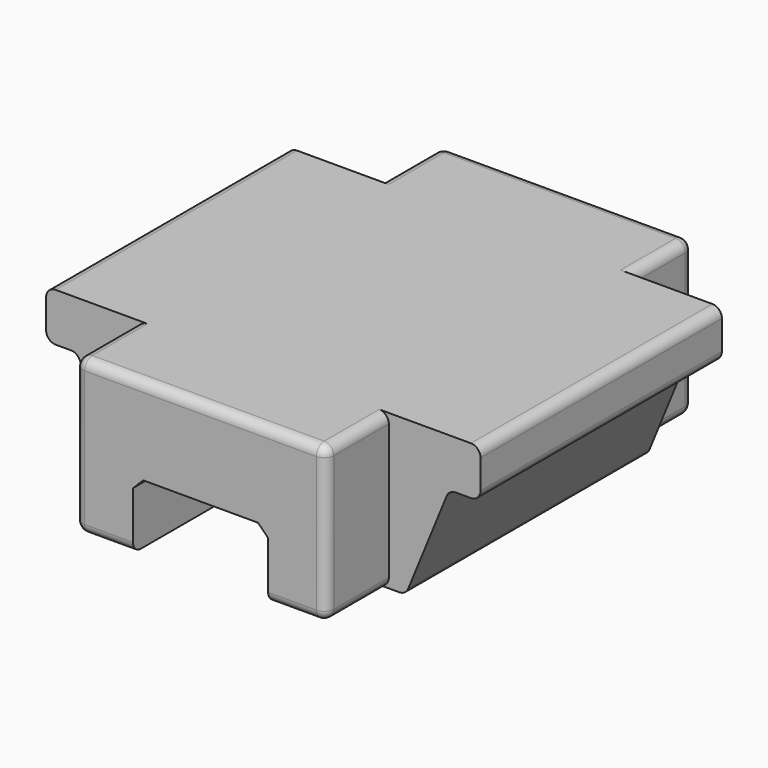
from build123d import *

# Parameters (mm, degrees)
F0_W          = 90
F0_H          = 32
F1_DEPTH      = 65.2
F3_DEPTH      = 25
F4_W          = 90
F4_H          = 65.2
F5_DEPTH      = 32.001
F6_DEPTH      = 62.5
F8_DEPTH      = 16.25
F8_DEPTH_BACK = 78.75
F9_R          = 2
F11_DEPTH     = 78.751


with BuildPart() as f1:
    # F0 (on Front) → F1 (new body)
    with BuildSketch(Plane.XZ):
        with Locations((-2.4301670492, -5.0586230417)):
            Rectangle(F0_W, F0_H)
    extrude(amount=F1_DEPTH)

    # F2 (on face) → F3 (join)
    with BuildSketch(Plane.XZ.offset(65.2)):
        with BuildLine():
            Line((40.5698329508, 10.9413769583), (-45.4301670492, 10.9413769583))
            ThreePointArc((-45.4301670492, 10.9413769583), (-46.8443806115, 10.3555905207), (-47.4301670492, 8.9413769583))
            Line((-47.4301670492, 8.9413769583), (-47.4301670492, 2.9413769583))
            ThreePointArc((-47.4301670492, 2.9413769583), (-46.8443806115, 1.5271633959), (-45.4301670492, 0.9413769583))
            Line((-45.4301670492, 0.9413769583), (-42.2728696535, 0.9413769583))
            ThreePointArc((-42.2728696535, 0.9413769583), (-41.1580897163, 0.6018785968), (-40.4217757411, -0.3013573503))
            Line((-40.4217757411, -0.3013573503), (-32.4385583572, -19.8158887331))
            ThreePointArc((-32.4385583572, -19.8158887331), (-31.7022443821, -20.7191246802), (-30.5874644448, -21.0586230417))
            Line((-30.5874644448, -21.0586230417), (25.7271303465, -21.0586230417))
            ThreePointArc((25.7271303465, -21.0586230417), (26.8419102837, -20.7191246802), (27.5782242589, -19.8158887331))
            Line((27.5782242589, -19.8158887331), (35.5614416428, -0.3013573503))
            ThreePointArc((35.5614416428, -0.3013573503), (36.2977556179, 0.6018785968), (37.4125355552, 0.9413769583))
            Line((37.4125355552, 0.9413769583), (40.5698329508, 0.9413769583))
            ThreePointArc((40.5698329508, 0.9413769583), (41.9840465132, 1.5271633959), (42.5698329508, 2.9413769583))
            Line((42.5698329508, 2.9413769583), (42.5698329508, 8.9413769583))
            ThreePointArc((42.5698329508, 8.9413769583), (41.9840465132, 10.3555905207), (40.5698329508, 10.9413769583))
        make_face()
    extrude(amount=F3_DEPTH)

    # F4 (on face) → F5 (cut, through all)
    with BuildSketch(Plane.XY.offset(10.9413769583)):
        with Locations((-2.4301670492, -32.6)):
            Rectangle(F4_W, F4_H)
    extrude(amount=-F5_DEPTH, mode=Mode.SUBTRACT)

    # F6 (add): a face of the model
    f6_faces = [f1.faces().sort_by_distance(p)[0] for p in [
        (-2.4301670492, -90.2, -3.7537517767),
    ]]
    extrude(f6_faces, amount=-F6_DEPTH)

    # F7 (on face) → F8 (join, two sides)
    with BuildSketch(Plane.XZ.offset(90.2)) as f8_sk:
        with BuildLine():
            Line((21.5698329508, 10.9413769583), (-26.4301670492, 10.9413769583))
            ThreePointArc((-26.4301670492, 10.9413769583), (-27.8443806115, 10.3555905207), (-28.4301670492, 8.9413769583))
            Line((-28.4301670492, 8.9413769583), (-28.4301670492, -19.0586230417))
            ThreePointArc((-28.4301670492, -19.0586230417), (-27.8443806115, -20.4728366041), (-26.4301670492, -21.0586230417))
            Line((-26.4301670492, -21.0586230417), (-16.4301670492, -21.0586230417))
            Line((-16.4301670492, -21.0586230417), (-16.4301670492, -9.1799433853))
            Line((-16.4301670492, -9.1799433853), (-14.3088467056, -7.0586230417))
            Line((-14.3088467056, -7.0586230417), (9.4485126073, -7.0586230417))
            Line((9.4485126073, -7.0586230417), (11.5698329508, -9.1799433853))
            Line((11.5698329508, -9.1799433853), (11.5698329508, -21.0586230417))
            Line((11.5698329508, -21.0586230417), (21.5698329508, -21.0586230417))
            ThreePointArc((21.5698329508, -21.0586230417), (22.9840465132, -20.4728366041), (23.5698329508, -19.0586230417))
            Line((23.5698329508, -19.0586230417), (23.5698329508, 8.9413769583))
            ThreePointArc((23.5698329508, 8.9413769583), (22.9840465132, 10.3555905207), (21.5698329508, 10.9413769583))
        make_face()
    extrude(amount=F8_DEPTH)
    extrude(f8_sk.sketch, amount=-F8_DEPTH_BACK)

    # F9
    f9_edges = [f1.edges().sort_by_distance(p)[0] for p in [
        (-28.430167, -106.45, -5.058623),
        (-2.430167, -11.45, 10.941377),
    ]]
    fillet(f9_edges, radius=F9_R)

    # F10 (on face) → F11 (cut, through all)
    with BuildSketch(Plane.XZ.offset(90.2)):
        Polygon((-16.4301670492, -9.1799433853), (-16.4301670492, -21.0586230417), (11.5698329508, -21.0586230417), (11.5698329508, -9.1799433853), (9.4485126073, -7.0586230417), (-14.3088467056, -7.0586230417), align=None)
    extrude(amount=-F11_DEPTH, mode=Mode.SUBTRACT)


solid = f1.part
